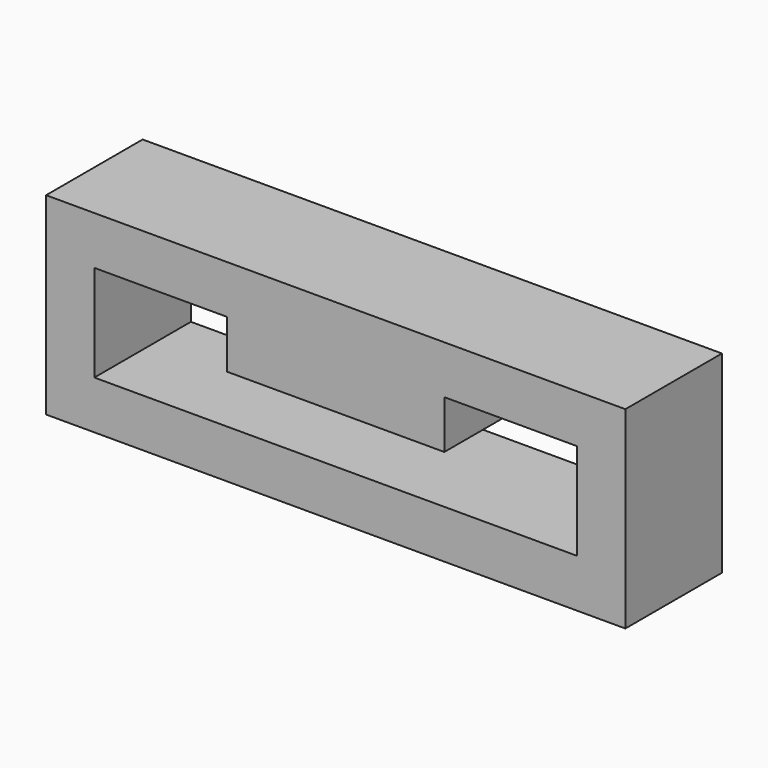
from build123d import *

# Parameters (mm, degrees)
F0_W     = 21.59
F0_H     = 2.54
F1_DEPTH = 3.175
F2_W     = 11.43
F2_H     = 6.35
F3_DEPTH = 2.54


with BuildPart() as f1:
    # F0 (on Front) → F1 (new body, symmetric)
    with BuildSketch(Plane.XZ):
        Polygon((15.24, -5.08), (15.24, 5.08), (10.725581, 5.08), (10.725581, 2.54), (12.7, 2.54), (12.7, -2.54), (-12.7, -2.54), (-12.7, 2.54), (-10.864419, 2.54), (-10.864419, 5.08), (-15.24, 5.08), (-15.24, -5.08), align=None)
        with Locations((-0.069419, 3.81)):
            Rectangle(F0_W, F0_H)
    extrude(amount=F1_DEPTH, both=True)

    # F2 (on face) → F3 (join)
    with BuildSketch(Plane(origin=(0, 0, 2.54), x_dir=(1, 0, 0), z_dir=(0, 0, -1))):
        Rectangle(F2_W, F2_H)
    extrude(amount=F3_DEPTH)


solid = f1.part
